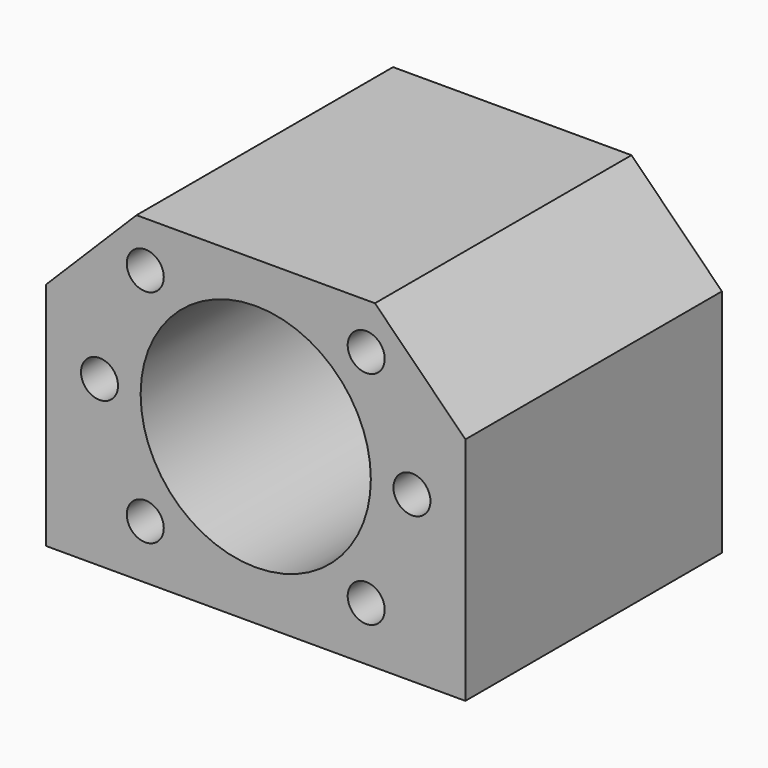
from build123d import *

# Parameters (mm, degrees)
F0_R     = 2.25
F0_R_2   = 14
F2_DEPTH = 39
F3_DEPTH = 29
F1_R     = 2.25
F4_DEPTH = 25


with BuildPart() as f2:
    # F0 (on Front) → F2 (new body)
    with BuildSketch(Plane.XZ):
        Polygon((-25.5, -14), (25.5, -14), (25.5, 14), (14.5, 25), (-14.5, 25), (-25.5, 14), align=None)
        with Locations((-13.435029, -7.435029)):
            Circle(F0_R, mode=Mode.SUBTRACT)
        with Locations((13.435029, -7.435029)):
            Circle(F0_R, mode=Mode.SUBTRACT)
        with Locations((-19, 6)):
            Circle(F0_R, mode=Mode.SUBTRACT)
        with Locations((-13.435029, 19.435029)):
            Circle(F0_R, mode=Mode.SUBTRACT)
        with Locations((0, 6)):
            Circle(F0_R_2, mode=Mode.SUBTRACT)
        with Locations((19, 6)):
            Circle(F0_R, mode=Mode.SUBTRACT)
        with Locations((13.435029, 19.435029)):
            Circle(F0_R, mode=Mode.SUBTRACT)
    extrude(amount=F2_DEPTH)

    # F0 (on Front) → F3 (join)
    with BuildSketch(Plane.XZ):
        with Locations((19, 6)):
            Circle(F0_R)
        with Locations((13.435029, 19.435029)):
            Circle(F0_R)
        with Locations((13.435029, -7.435029)):
            Circle(F0_R)
        with Locations((-13.435029, -7.435029)):
            Circle(F0_R)
        with Locations((-19, 6)):
            Circle(F0_R)
        with Locations((-13.435029, 19.435029)):
            Circle(F0_R)
    extrude(amount=F3_DEPTH)

    # F1 (on face) → F4 (cut)
    with BuildSketch(Plane(origin=(0, 0, -14), x_dir=(1, 0, 0), z_dir=(0, 0, -1))):
        with Locations((-20, 7)):
            Circle(F1_R)
        with Locations((-20, 31)):
            Circle(F1_R)
        with Locations((20, 31)):
            Circle(F1_R)
        with Locations((20, 7)):
            Circle(F1_R)
    extrude(amount=-F4_DEPTH, mode=Mode.SUBTRACT)


solid = f2.part
